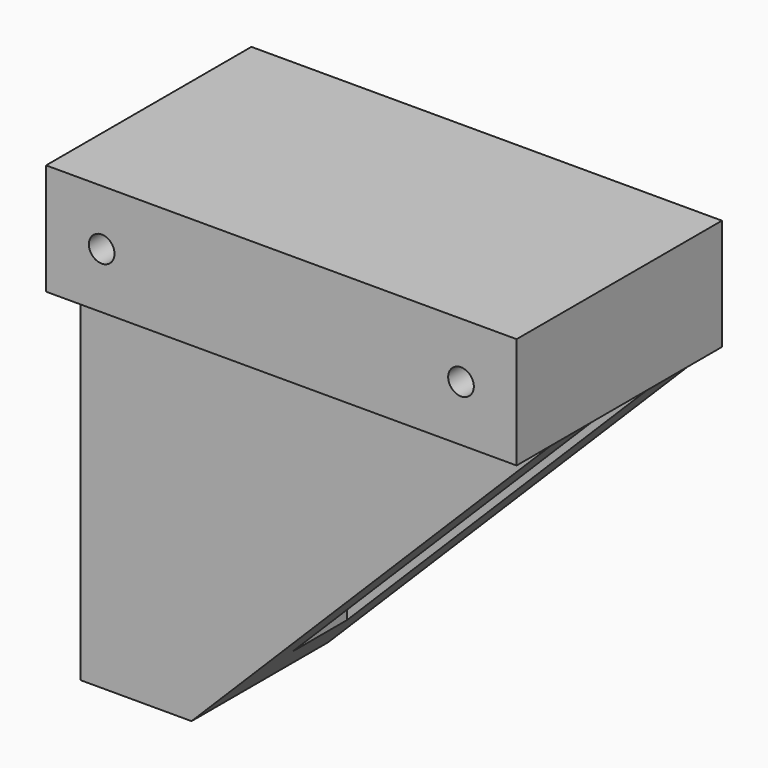
from build123d import *

# Parameters (mm, degrees)
PAD_DEPTH     = 20
SKETCH001_W   = 42
SKETCH001_H   = 8
POCKET_DEPTH  = 35
SKETCH002_R   = 2
HOLE_DEPTH    = 25
SKETCH003_R   = 1.5
HOLE001_DEPTH = 25
SKETCH004_W   = 55
SKETCH004_H   = 13
SKETCH004_R   = 1.5
PAD001_DEPTH  = 5
SKETCH005_W   = 55
SKETCH005_H   = 13
SKETCH005_R   = 1.5
PAD002_DEPTH  = 5


with BuildPart() as part:
    # Sketch → Pad (new body)
    with BuildSketch(Plane.XZ):
        Polygon((0, 0), (0, 55), (55, 55), (55, 42), (13, 0), align=None)
    extrude(amount=PAD_DEPTH)

    # Sketch001 (on Face3 of Pad) → Pocket (cut)
    with BuildSketch(Plane(origin=(55, 0, 0), x_dir=(0, 0, 1), z_dir=(1, 0, 0))):
        with Locations((21, 10)):
            Rectangle(SKETCH001_W, SKETCH001_H)
    extrude(amount=-POCKET_DEPTH, mode=Mode.SUBTRACT)

    # Sketch002 (on Face9 of Pocket) → Hole (cut)
    with BuildSketch(Plane(origin=(20, 0, 0), x_dir=(0, 0, 1), z_dir=(1, 0, 0))):
        with Locations((10, 10.133)):
            Circle(SKETCH002_R)
        with Locations((35, 10.080937)):
            Circle(SKETCH002_R)
    extrude(amount=-HOLE_DEPTH, mode=Mode.SUBTRACT)

    # Sketch003 (on Face4 of Hole) → Hole001 (cut)
    with BuildSketch(Plane.XZ.offset(20)):
        with Locations((6.5, 48.5)):
            Circle(SKETCH003_R)
        with Locations((48.5, 48.5)):
            Circle(SKETCH003_R)
    extrude(amount=-HOLE001_DEPTH, mode=Mode.SUBTRACT)

    # Sketch004 (on Face3 of Hole001) → Pad001 (join)
    with BuildSketch(Plane(origin=(0, 0, 0), x_dir=(1, 0, 0), z_dir=(0, 1, 0))):
        with Locations((27.5, -48.5)):
            Rectangle(SKETCH004_W, SKETCH004_H)
        with Locations((6.5, -48.5)):
            Circle(SKETCH004_R, mode=Mode.SUBTRACT)
        with Locations((48.5, -48.5)):
            Circle(SKETCH004_R, mode=Mode.SUBTRACT)
    extrude(amount=PAD001_DEPTH)

    # Sketch005 (on Face3 of Pad001) → Pad002 (join)
    with BuildSketch(Plane.XZ.offset(20)):
        with Locations((27.5, 48.5)):
            Rectangle(SKETCH005_W, SKETCH005_H)
        with Locations((6.5, 48.5)):
            Circle(SKETCH005_R, mode=Mode.SUBTRACT)
        with Locations((48.5, 48.5)):
            Circle(SKETCH005_R, mode=Mode.SUBTRACT)
    extrude(amount=PAD002_DEPTH)


solid = part.part
